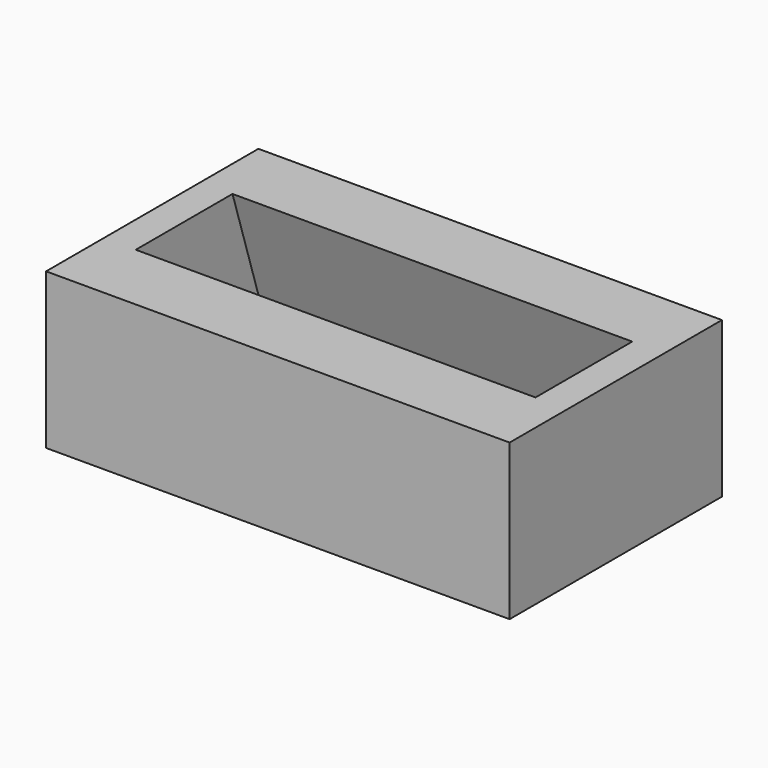
from build123d import *

# Parameters (mm, degrees)
F0_W     = 29.80761
F0_H     = 17.065489
F0_W_2   = 25.706239
F0_H_2   = 7.776679
F1_DEPTH = 10


with BuildPart() as f1:
    # F0 (on Top) → F1 (new body)
    with BuildSketch(Plane.XY):
        with Locations((-14.903805, 11.829116)):
            Rectangle(F0_W, F0_H)
        with Locations((-14.903805, 11.829116)):
            Rectangle(F0_W_2, F0_H_2, mode=Mode.SUBTRACT)
        with Locations((-14.903805, 11.829116)):
            Rectangle(F0_W_2, F0_H_2)
    extrude(amount=-F1_DEPTH)

    # F3: sweep along a path in F2
    with BuildLine(Plane.YZ) as f3_path:
        Line((11.829115, 0), (15.005645, -10))
    # F0 (on Top) → F3 (sweep, cut)
    with BuildSketch(Plane.XY):
        with Locations((-14.903805, 11.829116)):
            Rectangle(F0_W_2, F0_H_2)
    sweep(path=f3_path.line, mode=Mode.SUBTRACT)


solid = f1.part
